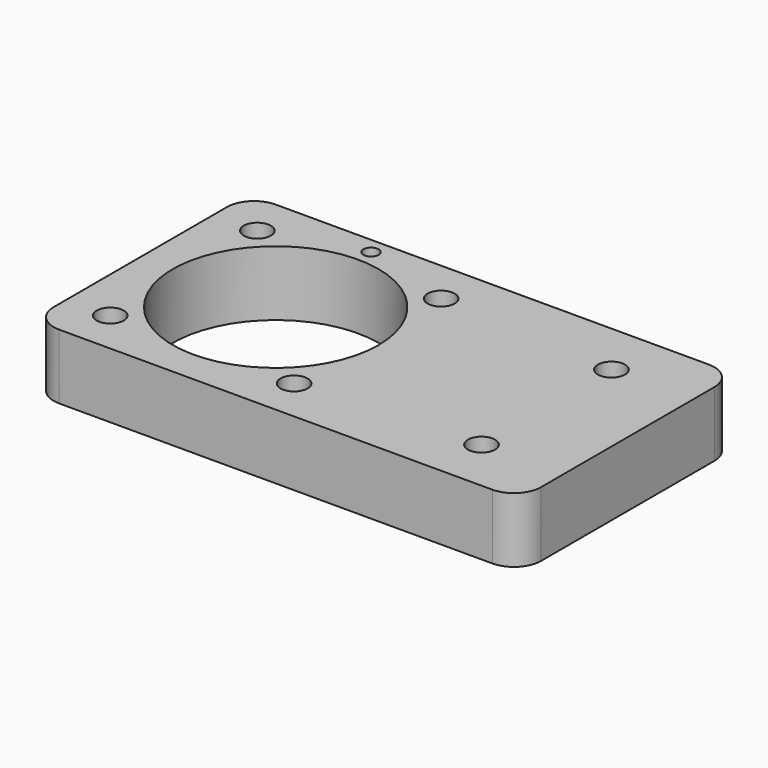
from build123d import *

# Parameters (mm, degrees)
F0_W     = 50
F0_H     = 50
F0_R     = 2.5
F0_R_2   = 19
F0_W_2   = 40
F1_DEPTH = 12
F2_R     = 1.4
F3_DEPTH = 12.001
F4_R     = 5


with BuildPart() as f1:
    # F0 (on Top) → F1 (new body)
    with BuildSketch(Plane.XY):
        Rectangle(F0_W, F0_H)
        with Locations((-16.970563, -16.970563)):
            Circle(F0_R, mode=Mode.SUBTRACT)
        with Locations((16.970563, -16.970563)):
            Circle(F0_R, mode=Mode.SUBTRACT)
        Circle(F0_R_2, mode=Mode.SUBTRACT)
        with Locations((-16.970563, 16.970563)):
            Circle(F0_R, mode=Mode.SUBTRACT)
        with Locations((16.970563, 16.970563)):
            Circle(F0_R, mode=Mode.SUBTRACT)
        with Locations((45, 0)):
            Rectangle(F0_W_2, F0_H)
        with Locations((50, -15)):
            Circle(F0_R, mode=Mode.SUBTRACT)
        with Locations((50, 15)):
            Circle(F0_R, mode=Mode.SUBTRACT)
    extrude(amount=F1_DEPTH)

    # F2 (on face) → F3 (cut, through all)
    with BuildSketch(Plane.XY.offset(12)):
        with Locations((0, 22)):
            Circle(F2_R)
    extrude(amount=-F3_DEPTH, mode=Mode.SUBTRACT)

    # F4
    f4_edges = [f1.edges().sort_by_distance(p)[0] for p in [
        (65, -25, 6),
        (-25, -25, 6),
        (-25, 25, 6),
        (65, 25, 6),
    ]]
    fillet(f4_edges, radius=F4_R)


solid = f1.part
